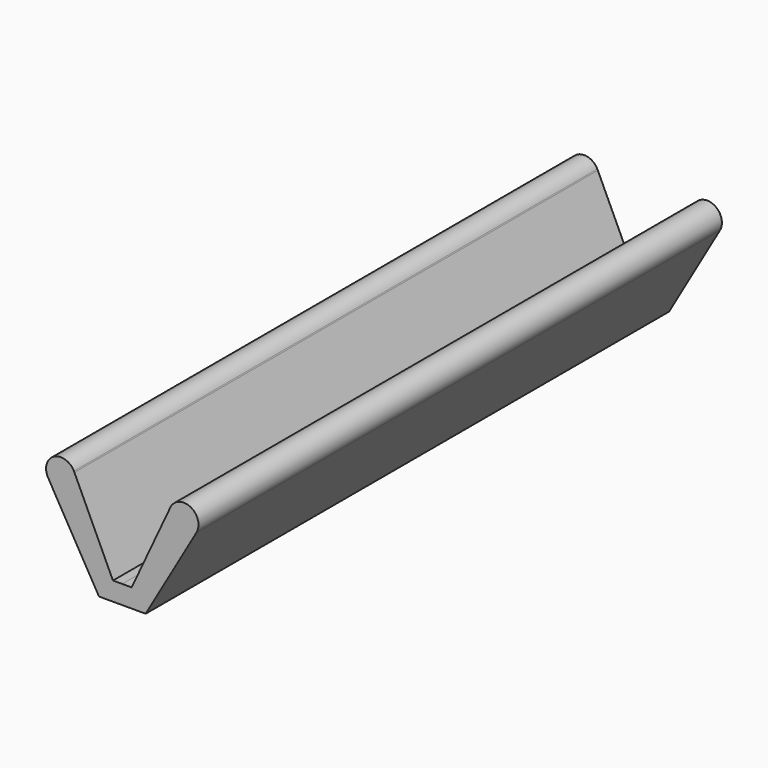
from build123d import *

# Parameters (mm, degrees)
F1_DEPTH = 140


with BuildPart() as f1:
    # F0 (on Front) → F1 (new body)
    with BuildSketch(Plane.XZ):
        with BuildLine():
            Line((-5, 0), (0, 0))
            Line((0, 0), (5, 0))
            Line((5, 0), (15.905888, 18.889553))
            ThreePointArc((15.905888, 18.889553), (14.648043, 23.212289), (10.347496, 21.880553))
            Line((10.347496, 21.880553), (10.240284, 21.650635))
            Line((10.240284, 21.650635), (1.99989, 3.979054))
            Line((1.99989, 3.979054), (0, 4))
            Line((0, 4), (-1.99989, 3.979054))
            Line((-1.99989, 3.979054), (-10.240284, 21.650635))
            Line((-10.240284, 21.650635), (-10.347496, 21.880553))
            ThreePointArc((-10.347496, 21.880553), (-14.648043, 23.212289), (-15.905888, 18.889553))
            Line((-15.905888, 18.889553), (-5, 0))
        make_face()
        with BuildLine():
            Line((10.240284, 21.650635), (10.347496, 21.880553))
            ThreePointArc((10.347496, 21.880553), (10.29158, 21.766671), (10.240284, 21.650635))
        make_face()
        with BuildLine():
            ThreePointArc((-10.240284, 21.650635), (-10.29158, 21.766671), (-10.347496, 21.880553))
            Line((-10.347496, 21.880553), (-10.240284, 21.650635))
        make_face()
    extrude(amount=F1_DEPTH)


solid = f1.part
